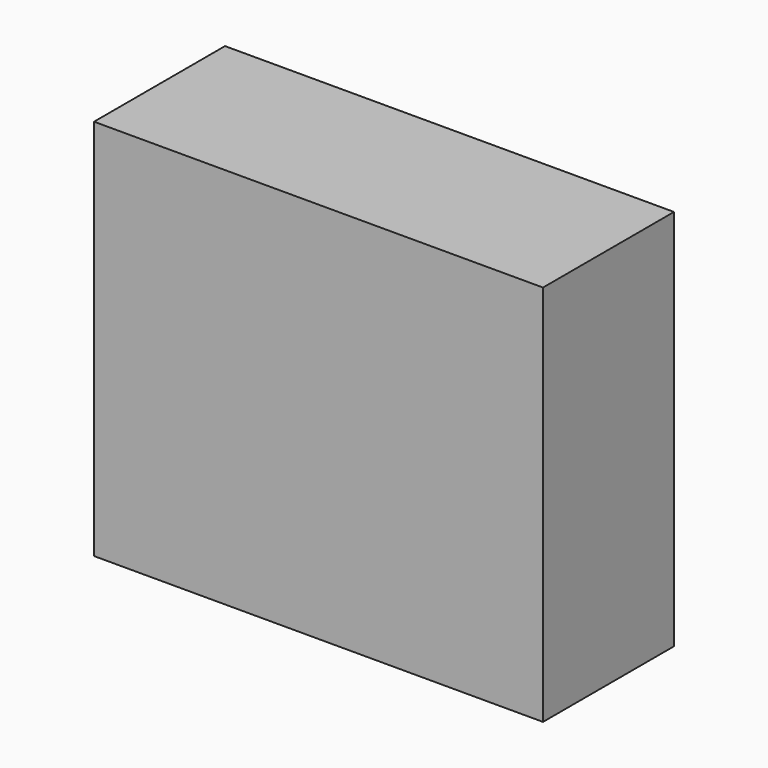
from build123d import *

# Parameters (mm, degrees)
F0_W     = 68.5546994209
F0_H     = 33.3893373609
F1_DEPTH = 25
F2_DEPTH = 25


with BuildPart() as f1:
    # F0 (on Front) → F1 (new body)
    with BuildSketch(Plane.XZ):
        with Locations((4.4400840998, 45.6439293921)):
            Rectangle(F0_W, F0_H)
    extrude(amount=F1_DEPTH)

    # F2 (add): a face of the model
    f2_faces = [f1.faces().sort_by_distance(p)[0] for p in [
        (4.4400840998, -12.5, 62.3385980725),
    ]]
    extrude(f2_faces, amount=F2_DEPTH)


solid = f1.part
